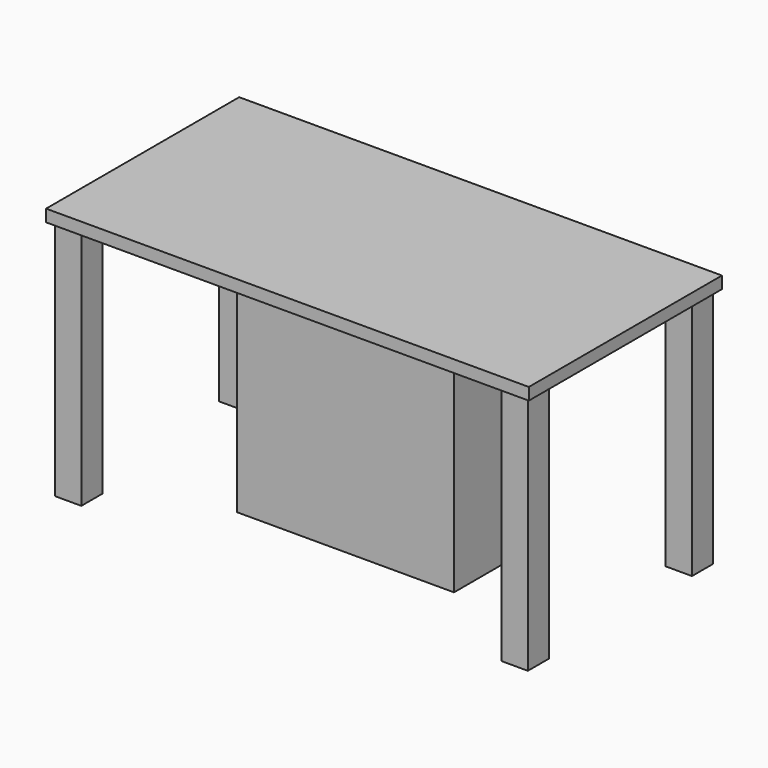
from build123d import *

# Parameters (mm, degrees)
F1_W     = 2.794
F1_H     = 2.794
F0_W     = 22.86
F0_H     = 10.16
F2_DEPTH = 25.4
F0_W_2   = 3.81
F0_H_2   = 3.81
F3_DEPTH = 1.27


with BuildPart() as f2:
    # F1 (on face) + F0 (on Top) → F2 (new body)
    with BuildSketch(Plane.XY):
        with Locations((-23.495, -10.795)):
            Rectangle(F1_W, F1_H)
        with Locations((23.495, -10.795)):
            Rectangle(F1_W, F1_H)
        with Locations((23.495, 10.795)):
            Rectangle(F1_W, F1_H)
        with Locations((-23.495, 10.795)):
            Rectangle(F1_W, F1_H)
    with BuildSketch(Plane.XY):
        Rectangle(F0_W, F0_H)
    extrude(amount=-F2_DEPTH)


with BuildPart() as f3:
    # F0 (on Top) → F3 (new body)
    with BuildSketch(Plane.XY):
        with Locations((23.495, 10.795)):
            Rectangle(F0_W_2, F0_H_2)
        with Locations((23.495, -10.795)):
            Rectangle(F0_W_2, F0_H_2)
        with Locations((-23.495, -10.795)):
            Rectangle(F0_W_2, F0_H_2)
        Polygon((-21.59, -12.7), (21.59, -12.7), (21.59, -8.89), (25.4, -8.89), (25.4, 8.89), (21.59, 8.89), (21.59, 12.7), (-21.59, 12.7), (-21.59, 8.89), (-25.4, 8.89), (-25.4, -8.89), (-21.59, -8.89), align=None)
        Rectangle(F0_W, F0_H, mode=Mode.SUBTRACT)
        with Locations((-23.495, 10.795)):
            Rectangle(F0_W_2, F0_H_2)
        Rectangle(F0_W, F0_H)
    extrude(amount=F3_DEPTH)


solid = Compound([f2.part, f3.part])
